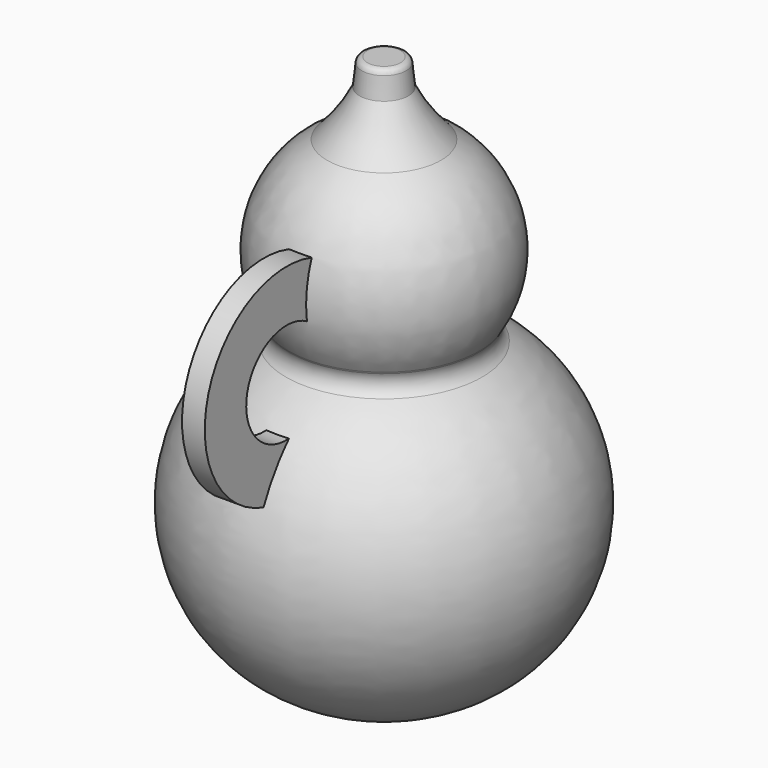
from build123d import *

# Parameters (mm, degrees)
F2_R          = 0.762
F3_R          = 13.718377
F3_R_2        = 6.774286
F4_DEPTH      = 1.524
F4_DEPTH_BACK = 1.524


with BuildPart() as f1:
    # F0 (on Front) → F1 (revolve)
    with BuildSketch(Plane.XZ):
        with BuildLine():
            Line((0, 22.899937), (0, 30.577168))
            Line((0, 30.577168), (-2.919988, 30.577168))
            ThreePointArc((-2.919988, 30.577168), (-3.08175, 28.790925), (-3.282487, 27.008642))
            ThreePointArc((-3.282487, 27.008642), (-5.207949, 23.736367), (-7.634749, 20.816464))
            ThreePointArc((-7.634749, 20.816464), (-3.956964, 22.369717), (0, 22.899937))
        make_face()
        with BuildLine():
            Line((0, 0), (0, 22.899937))
            ThreePointArc((0, 22.899937), (-3.956964, 22.369717), (-7.634749, 20.816464))
            ThreePointArc((-7.634749, 20.816464), (-14.586999, 11.492937), (-12.805333, 0))
            ThreePointArc((-12.805333, 0), (-12.708777, -0.140804), (-12.623394, -0.288649))
            ThreePointArc((-12.623394, -0.288649), (-11.999693, -1.181052), (-11.313028, -2.025964))
            ThreePointArc((-11.313028, -2.025964), (-5.790431, -0.26519), (0, 0))
        make_face()
        with BuildLine():
            Line((0, -7.160567), (0, 0))
            ThreePointArc((0, 0), (-5.790431, -0.26519), (-11.313028, -2.025964))
            ThreePointArc((-11.313028, -2.025964), (-6.211859, -5.816852), (0, -7.160567))
        make_face()
        with BuildLine():
            Line((0, -44.065658), (0, -7.160567))
            ThreePointArc((0, -7.160567), (-6.211859, -5.816852), (-11.313028, -2.025964))
            ThreePointArc((-11.313028, -2.025964), (-12.236123, -2.487243), (-13.136694, -2.991083))
            ThreePointArc((-13.136694, -2.991083), (-22.955141, -28.769284), (0, -44.065658))
        make_face()
        with BuildLine():
            ThreePointArc((-13.136694, -2.991083), (-12.236123, -2.487243), (-11.313028, -2.025964))
            ThreePointArc((-11.313028, -2.025964), (-11.999693, -1.181052), (-12.623394, -0.288649))
            ThreePointArc((-12.623394, -0.288649), (-12.407578, -1.729606), (-13.136694, -2.991083))
        make_face()
        with BuildLine():
            ThreePointArc((-12.623394, -0.288649), (-12.708777, -0.140804), (-12.805333, 0))
            ThreePointArc((-12.805333, 0), (-12.715182, -0.144841), (-12.623394, -0.288649))
        make_face()
    revolve(axis=Axis((0, 0, 0.300789), (0, 0, -1)))

    # F2
    f2_edges = [f1.edges().sort_by_distance(p)[0] for p in [
        (2.919988, 0, 30.577168),
    ]]
    fillet(f2_edges, radius=F2_R)

    # F3 (on Right) → F4 (join, two sides)
    with BuildSketch(Plane.YZ) as f4_sk:
        with Locations((-18.22201, 0)):
            Circle(F3_R)
        with Locations((-18.22201, 0)):
            Circle(F3_R_2, mode=Mode.SUBTRACT)
    extrude(amount=F4_DEPTH)
    extrude(f4_sk.sketch, amount=-F4_DEPTH_BACK)


solid = f1.part
